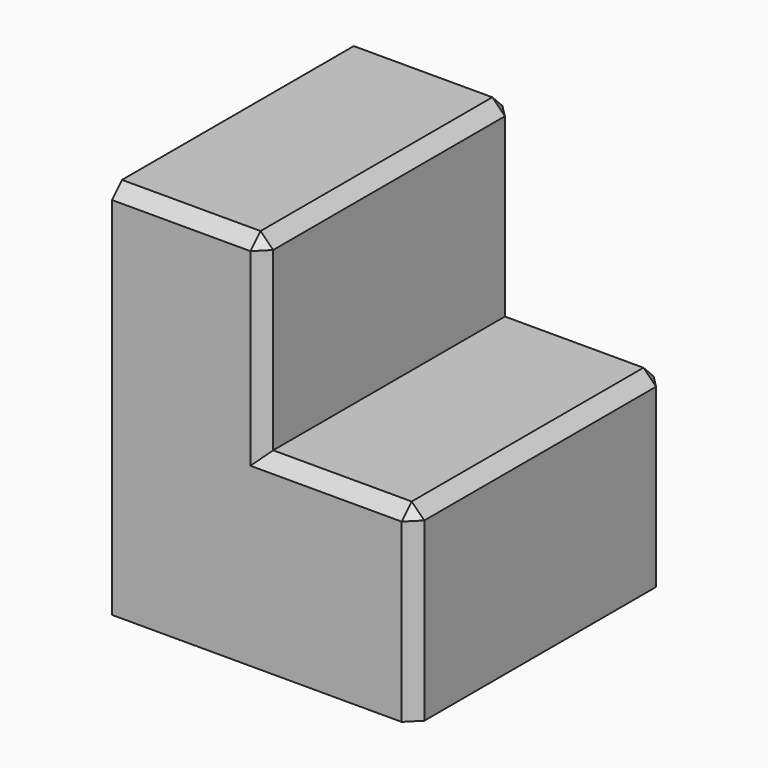
from build123d import *

# Parameters (mm, degrees)
F1_DEPTH = 25
F2_SIZE  = 1


with BuildPart() as f1:
    # F0 (on Front) → F1 (new body)
    with BuildSketch(Plane.XZ):
        Polygon((12, 0), (0, 0), (0, 15), (-12, 15), (-12, -15), (12, -15), align=None)
    extrude(amount=-F1_DEPTH)

    # F2
    f2_edges = [f1.edges().sort_by_distance(p)[0] for p in [
        (0, 0, 7.5),
        (0, 12.5, 15),
        (6, 0, 0),
        (12, 12.5, 0),
        (12, 0, -7.5),
        (0, 25, 7.5),
        (6, 25, 0),
        (12, 25, -7.5),
        (-6, 25, 15),
        (-6, 0, 15),
    ]]
    chamfer(f2_edges, length=F2_SIZE)


solid = f1.part
